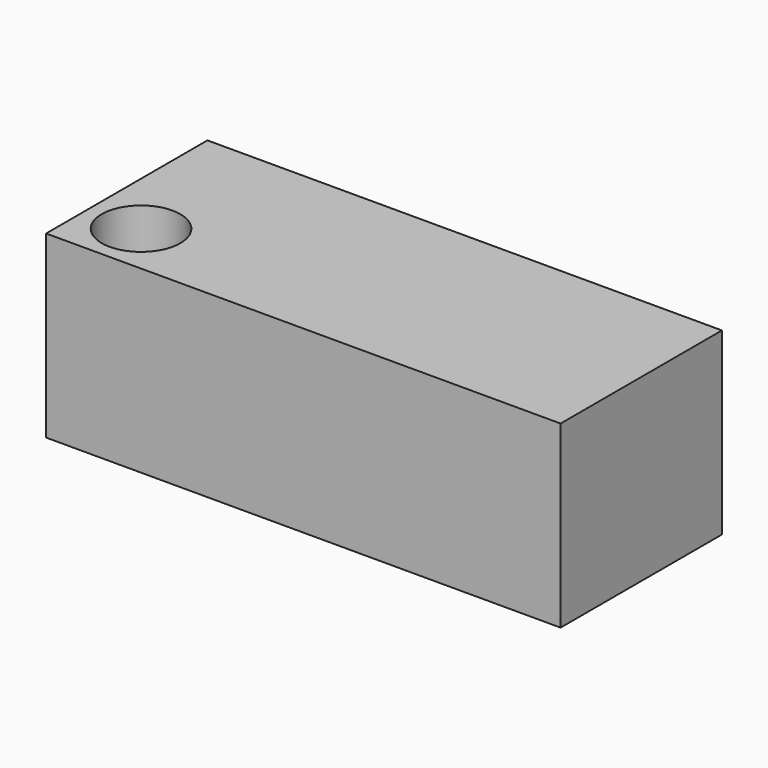
from build123d import *

# Parameters (mm, degrees)
F0_W     = 290.903047
F0_H     = 114.028264
F0_R     = 22.227707
F1_DEPTH = 101.6
F3_DEPTH = 25.4


with BuildPart() as f1:
    # F0 (on Top) → F1 (new body)
    with BuildSketch(Plane.XY):
        with Locations((79.182141, -6.367212)):
            Rectangle(F0_W, F0_H)
        with Locations((-36.404692, -33.608936)):
            Circle(F0_R, mode=Mode.SUBTRACT)
    extrude(amount=F1_DEPTH)

    # F2 (on face) → F3 (cut)
    with BuildSketch(Plane.XY.offset(101.6)):
        with BuildLine():
            Line((113.667183, 17.614277), (90.719864, 17.614277))
            Line((90.719864, 17.614277), (90.719864, 3.507722))
            ThreePointArc((90.719864, 3.507722), (96.879223, -42.829117), (113.667183, 0.796618))
            Line((113.667183, 0.796618), (113.667183, 17.614277))
        make_face()
    extrude(amount=F3_DEPTH, mode=Mode.SUBTRACT)


solid = f1.part
